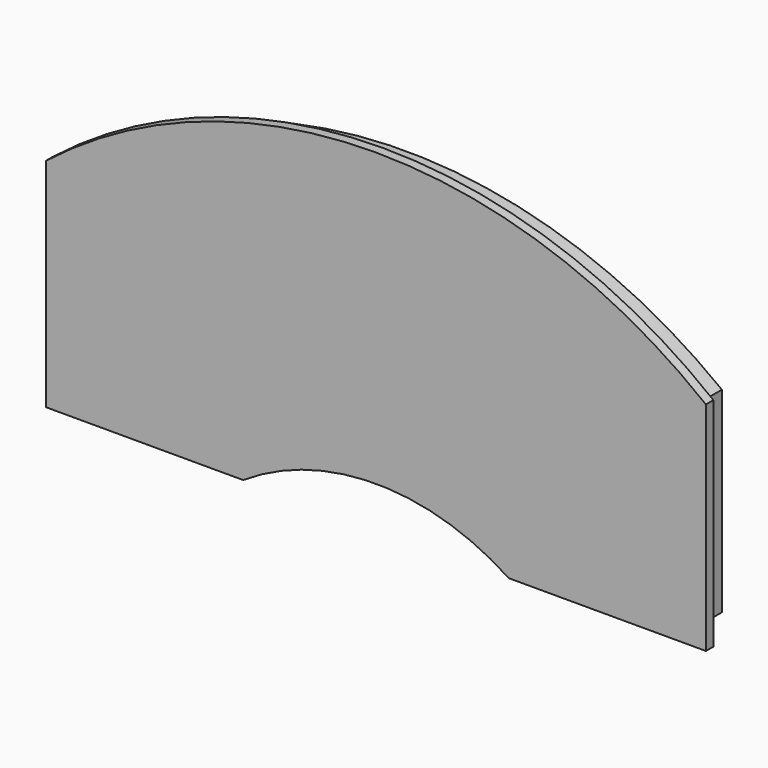
from build123d import *

# Parameters (mm, degrees)
F1_DEPTH = 1
F3_DEPTH = 3


with BuildPart() as f1:
    # F0 (on Front) → F1 (new body)
    with BuildSketch(Plane.XZ):
        with BuildLine():
            Line((14.090503, 21.313837), (35, 21.313837))
            Line((35, 21.313837), (35, 44.340667))
            ThreePointArc((35, 44.340667), (0, 56.489775), (-35, 44.340667))
            Line((-35, 44.340667), (-35, 21.313837))
            Line((-35, 21.313837), (-14.090503, 21.313837))
            ThreePointArc((-14.090503, 21.313837), (0, 25.55038), (14.090503, 21.313837))
        make_face()
    extrude(amount=-F1_DEPTH)

    # F2 (on face) → F3 (join)
    with BuildSketch(Plane(origin=(0, 1, 0), x_dir=(-1, 0, 0), z_dir=(0, 1, 0))):
        with BuildLine():
            ThreePointArc((33.5, 43.607628), (-1e-06, 54.989774), (-33.500001, 43.607627))
            Line((-33.500001, 43.607627), (-33.500001, 22.813837))
            Line((-33.500001, 22.813837), (-14.534507, 22.813837))
            ThreePointArc((-14.534507, 22.813837), (0, 27.05038), (14.534507, 22.813837))
            Line((14.534507, 22.813837), (33.5, 22.813837))
            Line((33.5, 22.813837), (33.5, 43.607628))
        make_face()
    extrude(amount=F3_DEPTH)


solid = f1.part
